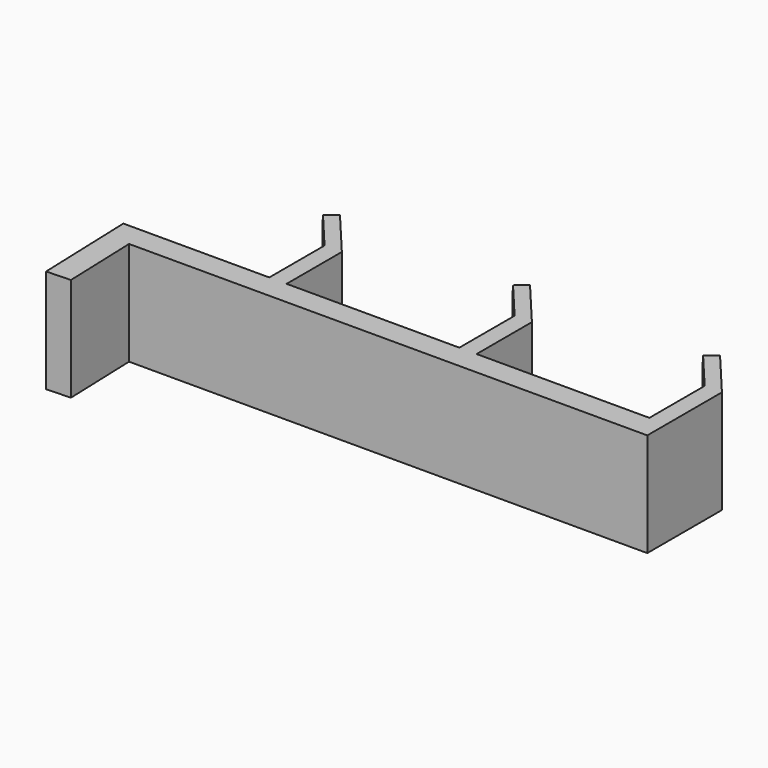
from build123d import *

# Parameters (mm, degrees)
F1_DEPTH = 30
F2_SIZE2 = 5.08
F2_SIZE  = 5.08


with BuildPart() as f1:
    # F0 (on Top) → F1 (new body)
    with BuildSketch(Plane.XY):
        Polygon((-48.136686, -28.986598), (-48.904475, -7), (101.095525, -7), (101.095525, 20), (86.173893, 37.782908), (83.239773, 35.320889), (96.095525, 20), (96.095525, 0), (46.095525, 0), (46.095525, 20), (31.173893, 37.782908), (28.23475, 35.316674), (41.095525, 19.9898), (41.095525, 0), (-8.904475, 0), (-8.904475, 19.9898), (-23.834665, 37.782908), (-26.773808, 35.316674), (-13.913034, 19.9898), (-13.913034, 0), (-56.153187, 0), (-55.132422, -29.230895), align=None)
    extrude(amount=F1_DEPTH)

    # F2
    f2_edges = [f1.edges().sort_by_distance(p)[0] for p in [
        (-25.304237, 36.549791, 30),
        (-25.304237, 36.549791, 0),
        (29.704322, 36.549791, 0),
        (29.704322, 36.549791, 30),
        (84.706833, 36.551899, 30),
        (84.706833, 36.551899, 0),
    ]]
    chamfer(f2_edges, length=F2_SIZE, length2=F2_SIZE2)


solid = f1.part
